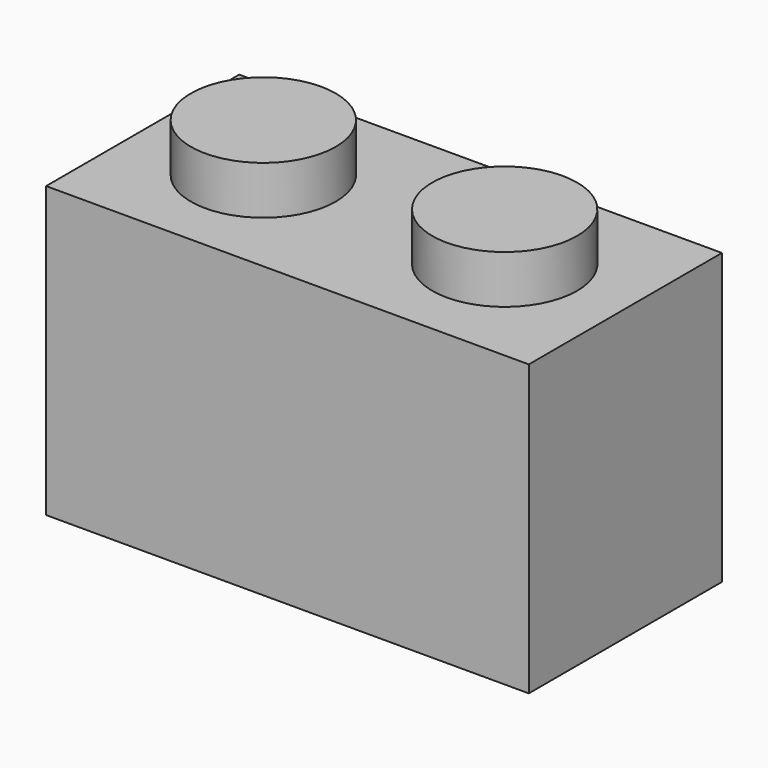
from build123d import *

# Parameters (mm, degrees)
F0_W     = 16
F0_H     = 8
F1_DEPTH = 9.6
F2_W     = 12.8
F2_H     = 4.8
F2_R     = 1.6
F3_DEPTH = 8
F4_R     = 2.4
F5_DEPTH = 1.6
F6_R     = 1.2
F7_DEPTH = 1.6


with BuildPart() as f1:
    # F0 (on Top) → F1 (new body)
    with BuildSketch(Plane.XY):
        Rectangle(F0_W, F0_H)
    extrude(amount=F1_DEPTH)

    # F2 (on face) → F3 (cut)
    with BuildSketch(Plane(origin=(0, 0, 0), x_dir=(1, 0, 0), z_dir=(0, 0, -1))):
        Rectangle(F2_W, F2_H)
        Circle(F2_R, mode=Mode.SUBTRACT)
    extrude(amount=-F3_DEPTH, mode=Mode.SUBTRACT)

    # F4 (on face) → F5 (join)
    with BuildSketch(Plane.XY.offset(9.6)):
        with Locations((-4, 0)):
            Circle(F4_R)
        with Locations((4, 0)):
            Circle(F4_R)
    extrude(amount=F5_DEPTH)

    # F6 (on face) → F7 (cut)
    with BuildSketch(Plane(origin=(0, 0, 8), x_dir=(1, 0, 0), z_dir=(0, 0, -1))):
        with Locations((4, 0)):
            Circle(F6_R)
        with Locations((-4, 0)):
            Circle(F6_R)
    extrude(amount=-F7_DEPTH, mode=Mode.SUBTRACT)


solid = f1.part
